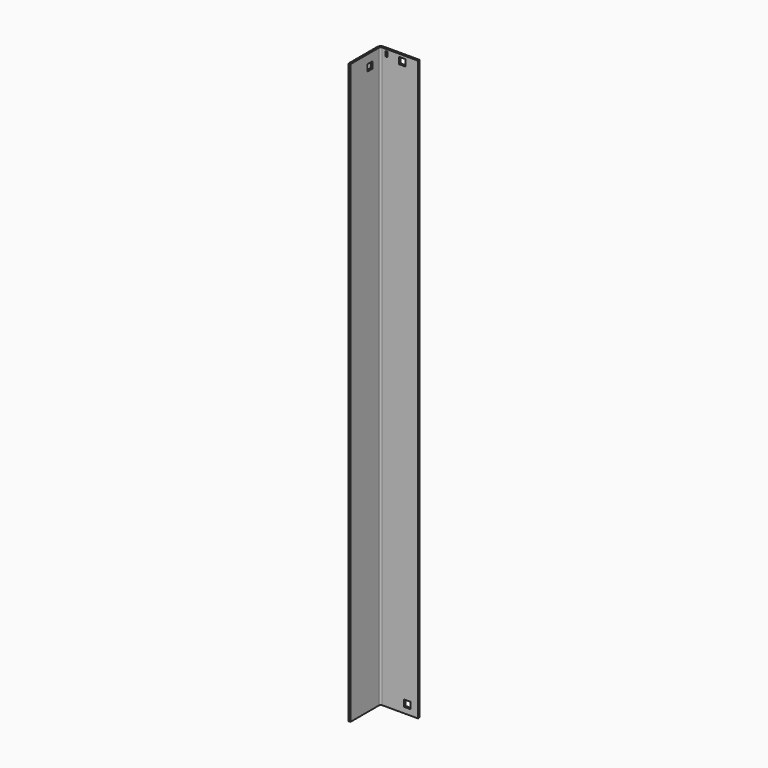
from build123d import *

# Parameters (mm, degrees)
F1_DEPTH  = 1117.6
F1_FACE_W = 69.215
F1_FACE_H = 1117.6
F2_DEPTH  = 12.7
F3_W      = 4.401298
F3_H      = 9.729863
F3_W_2    = 12.7
F3_H_2    = 12.7
F4_DEPTH  = 3.811
F5_W      = 12.7
F5_H      = 12.7
F6_DEPTH  = 3.811
F7_W      = 12.7
F7_H      = 12.7
F8_DEPTH  = 3.811


with BuildPart() as f1:
    # F0 (on Top) → F1 (new body)
    with BuildSketch(Plane.XY):
        with BuildLine():
            ThreePointArc((0, -75.3745), (0.241783, -75.958217), (0.8255, -76.2))
            Line((0.8255, -76.2), (3.81, -76.2))
            Line((3.81, -76.2), (3.81, -6.985))
            ThreePointArc((3.81, -6.985), (4.739936, -4.739936), (6.985, -3.81))
            Line((6.985, -3.81), (76.2, -3.81))
            Line((76.2, -3.81), (76.2, -0.8255))
            ThreePointArc((76.2, -0.8255), (75.958217, -0.241783), (75.3745, 0))
            Line((75.3745, 0), (6.985, 0))
            ThreePointArc((6.985, 0), (2.045859, -2.045859), (0, -6.985))
            Line((0, -6.985), (0, -75.3745))
        make_face()
        with BuildLine():
            ThreePointArc((0, -75.3745), (0.241783, -75.958217), (0.8255, -76.2))
            Line((0.8255, -76.2), (3.81, -76.2))
            Line((3.81, -76.2), (3.81, -6.985))
            ThreePointArc((3.81, -6.985), (4.739936, -4.739936), (6.985, -3.81))
            Line((6.985, -3.81), (76.2, -3.81))
            Line((76.2, -3.81), (76.2, -0.8255))
            ThreePointArc((76.2, -0.8255), (75.958217, -0.241783), (75.3745, 0))
            Line((75.3745, 0), (6.985, 0))
            ThreePointArc((6.985, 0), (2.045859, -2.045859), (0, -6.985))
            Line((0, -6.985), (0, -75.3745))
        make_face()
    extrude(amount=F1_DEPTH)

    # F1_face (on face) → F2 (cut)
    with BuildSketch(Plane(origin=(41.5925, -3.81, 558.8), x_dir=(1, 0, 0), z_dir=(0, -1, 0))):
        Rectangle(F1_FACE_W, F1_FACE_H)
    extrude(amount=F2_DEPTH, mode=Mode.SUBTRACT)

    # F3 (on face) → F4 (cut, through all)
    with BuildSketch(Plane.XZ.offset(3.81)):
        with Locations((15.575112, 1109.140038)):
            Rectangle(F3_W, F3_H)
        with Locations((45.943957, 1106.071313)):
            Rectangle(F3_W_2, F3_H_2)
    extrude(amount=-F4_DEPTH, mode=Mode.SUBTRACT)

    # F5 (on face) → F6 (cut, through all)
    with BuildSketch(Plane.YZ.offset(3.81)):
        with Locations((-29.260806, 1094.573338)):
            Rectangle(F5_W, F5_H)
    extrude(amount=-F6_DEPTH, mode=Mode.SUBTRACT)

    # F7 (on face) → F8 (cut, through all)
    with BuildSketch(Plane.XZ.offset(3.81)):
        with Locations((55.762946, 17.327846)):
            Rectangle(F7_W, F7_H)
    extrude(amount=-F8_DEPTH, mode=Mode.SUBTRACT)


solid = f1.part
